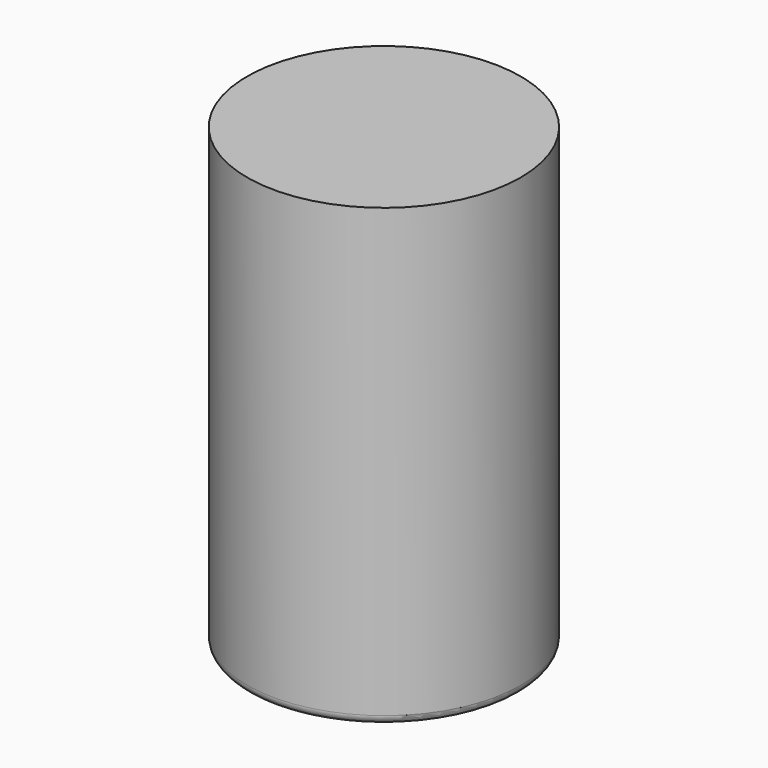
from build123d import *

# Parameters (mm, degrees)
F0_R     = 30
F1_DEPTH = 100
F2_R     = 10
F3_DEPTH = 24
F4_R     = 2
F5_R     = 4
F6_DEPTH = 30
F7_R     = 4
F8_DEPTH = 30


with BuildPart() as f1:
    # F0 (on Top) → F1 (new body)
    with BuildSketch(Plane.XY):
        Circle(F0_R)
    extrude(amount=F1_DEPTH)

    # F2 (on face) → F3 (cut)
    with BuildSketch(Plane(origin=(0, 0, 0), x_dir=(1, 0, 0), z_dir=(0, 0, -1))):
        Circle(F2_R)
    extrude(amount=-F3_DEPTH, mode=Mode.SUBTRACT)

    # F4
    f4_edges = [f1.edges().sort_by_distance(p)[0] for p in [
        (-10, 0, 0),
        (-30, 0, 0),
    ]]
    fillet(f4_edges, radius=F4_R)

    # F5 (on Right) → F6 (cut)
    with BuildSketch(Plane.YZ):
        with Locations((0, 10)):
            Circle(F5_R)
    extrude(amount=-F6_DEPTH, mode=Mode.SUBTRACT)

    # F7 (on Front) → F8 (cut)
    with BuildSketch(Plane.XZ):
        with Locations((0, 10)):
            Circle(F7_R)
    extrude(amount=-F8_DEPTH, mode=Mode.SUBTRACT)


solid = f1.part
